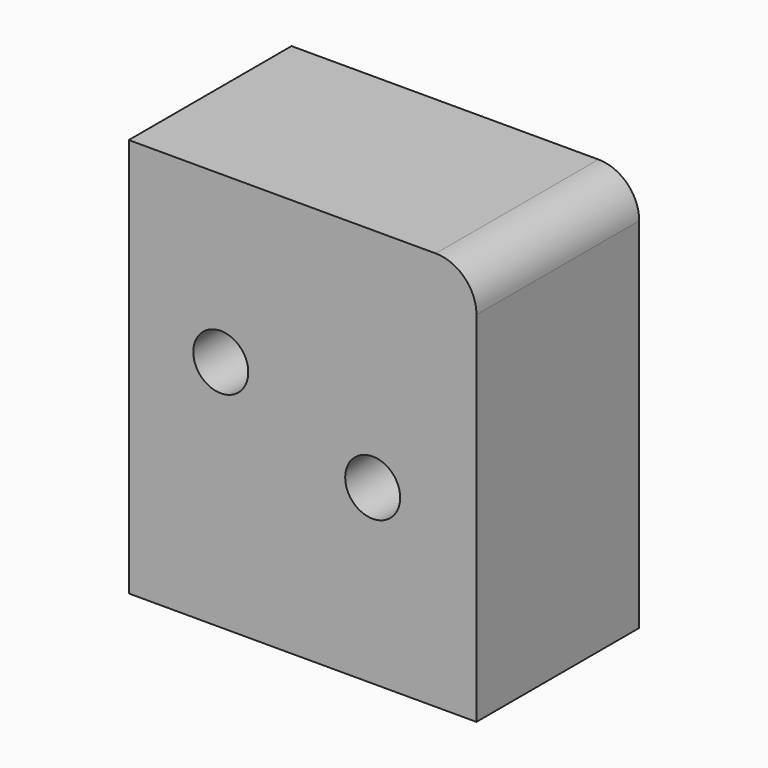
from build123d import *

# Parameters (mm, degrees)
F0_W     = 42.7247285843
F0_H     = 49.0501485765
F1_DEPTH = 25
F2_R     = 5
F4_D     = 6.7564
F4_DEPTH = 9
F4_TIP   = 2.0298273432


with BuildPart() as f1:
    # F0 (on Front) → F1 (new body)
    with BuildSketch(Plane.XZ):
        with Locations((-69.0939426422, 50.483379513)):
            Rectangle(F0_W, F0_H)
    extrude(amount=F1_DEPTH)

    # F2
    f2_edges = [f1.edges().sort_by_distance(p)[0] for p in [
        (-47.731578, -12.5, 75.008454),
    ]]
    fillet(f2_edges, radius=F2_R)

    # F4
    with Locations(Plane.XZ.offset(25)):
        with Locations((-79.1495665908, 54.6661131084), (-60.4854077101, 47.1587516367)):
            Hole(F4_D / 2, depth=F4_DEPTH)
            with Locations((0, 0, -(F4_DEPTH + F4_TIP / 2))):  # 118° drill point
                Cone(0, F4_D / 2, F4_TIP, mode=Mode.SUBTRACT)


solid = f1.part
